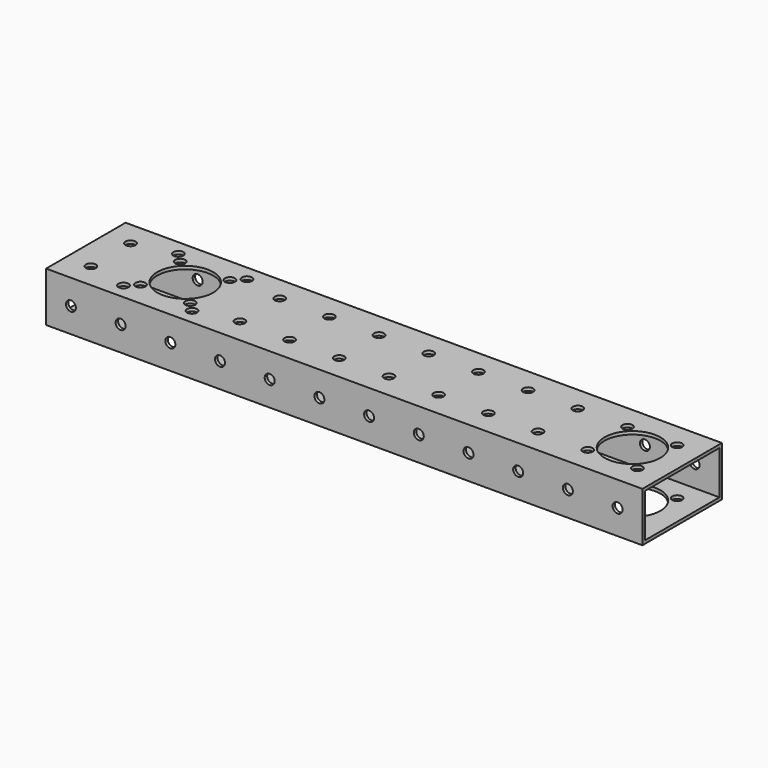
from build123d import *

# Parameters (mm, degrees)
F0_W     = 50.8
F0_H     = 25.4
F0_W_2   = 47.625
F0_H_2   = 22.225
F1_DEPTH = 304.8
F2_R     = 14.28115
F3_DEPTH = 25.401
F4_R     = 14.2875
F4_R_2   = 2.5527
F5_DEPTH = 25.401
F7_D     = 5.1054
F9_D     = 5.1054


with BuildPart() as f1:
    # F0 (on Right) → F1 (new body)
    with BuildSketch(Plane.YZ):
        Rectangle(F0_W, F0_H)
        Rectangle(F0_W_2, F0_H_2, mode=Mode.SUBTRACT)
    extrude(amount=F1_DEPTH)

    # F2 (on face) → F3 (cut, through all)
    with BuildSketch(Plane.XY.offset(12.7)):
        with Locations((279.4, 0)):
            Circle(F2_R)
    extrude(amount=-F3_DEPTH, mode=Mode.SUBTRACT)

    # F4 (on face) → F5 (cut, through all)
    with BuildSketch(Plane.XY.offset(12.7)):
        with Locations((50.8, 0)):
            Circle(F4_R)
        with Locations((68.326, 17.526)):
            Circle(F4_R_2)
        with Locations((68.326, -17.526)):
            Circle(F4_R_2)
        with Locations((33.274, -17.526)):
            Circle(F4_R_2)
        with Locations((33.274, 17.526)):
            Circle(F4_R_2)
    extrude(amount=-F5_DEPTH, mode=Mode.SUBTRACT)

    # F7 (through all)
    with Locations(Plane.XZ.offset(25.4)):
        with Locations((165.1, 0), (139.7, 0), (63.5, 0), (114.3, 0), (266.7, 0), (88.9, 0), (12.7, 0), (190.5, 0), (241.3, 0), (215.9, 0), (292.1, 0), (38.1, 0)):
            Hole(F7_D / 2)

    # F9 (through all)
    with Locations(Plane.XY.offset(12.7)):
        with Locations((88.9, 12.7), (165.1, -12.7), (241.3, -12.7), (139.7, -12.7), (38.1, 12.7), (165.1, 12.7), (215.9, -12.7), (292.1, 12.7), (266.7, -12.7), (63.5, -12.7), (88.9, -12.7), (266.7, 12.7), (241.3, 12.7), (63.5, 12.7), (38.1, -12.7), (190.5, 12.7), (12.7, 12.7), (12.7, -12.7), (114.3, -12.7), (114.3, 12.7), (292.1, -12.7), (139.7, 12.7), (190.5, -12.7), (215.9, 12.7)):
            Hole(F9_D / 2)


solid = f1.part
